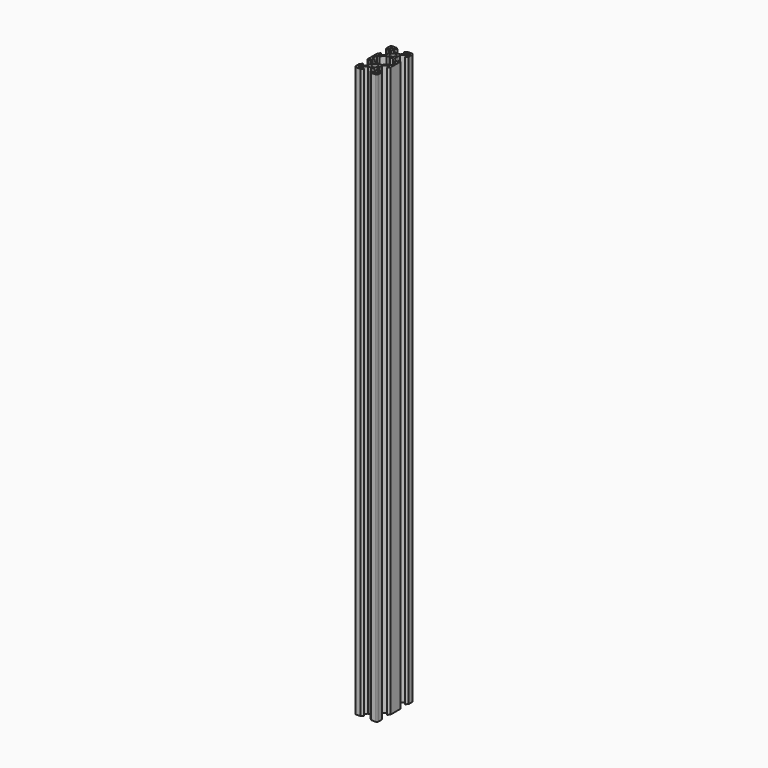
from build123d import *

# Parameters (mm, degrees)
PAD_DEPTH = 500


with BuildPart() as part:
    # Sketch → Pad (new body)
    with BuildSketch(Plane.XY):
        Polygon((9.793031, 6.099995), (7.160666, 6.099995), (4.500005, 3.439335), (4.500005, 1.799995), (7.113379, 1.799995), (7.113379, 1.693368), (5.597807, 0.177796), (5.568813, 0.150641), (5.538106, 0.12544), (5.505816, 0.102301), (5.472082, 0.081324), (5.437049, 0.062598), (5.400865, 0.046204), (5.363687, 0.032211), (5.325673, 0.020679), (5.286987, 0.011659), (5.247793, 0.005188), (5.20826, 0.001294), (5.168557, -5e-06), (1.500005, -5e-06), (1.304216, 0.012828), (1.111777, 0.051106), (0.92598, 0.114176), (0.750005, 0.200957), (0.586863, 0.309965), (0.439345, 0.439335), (0.309975, 0.586853), (0.200967, 0.749995), (0.114186, 0.92597), (0.051117, 1.111767), (0.012838, 1.304206), (5e-06, 1.499995), (6e-06, 5.099995), (0.001305, 5.208249), (0.005199, 5.247782), (0.01167, 5.286976), (0.02069, 5.325662), (0.032222, 5.363676), (0.046215, 5.400854), (0.062609, 5.437038), (0.081335, 5.472071), (0.102312, 5.505805), (0.125451, 5.538095), (0.150652, 5.568803), (0.177807, 5.597796), (1.693379, 7.113368), (1.800006, 7.113368), (1.800005, 4.499995), (3.439345, 4.499995), (6.100005, 7.160655), (6.100005, 9.800127), (6.299873, 9.999995), (6.100005, 10.199863), (6.100005, 12.839335), (3.439345, 15.499995), (1.800005, 15.499995), (1.800006, 12.886622), (1.693379, 12.886622), (0.177807, 14.402194), (0.150651, 14.431187), (0.125451, 14.461894), (0.102312, 14.494184), (0.081335, 14.527918), (0.062609, 14.562952), (0.046215, 14.599135), (0.032222, 14.636313), (0.02069, 14.674327), (0.01167, 14.713014), (0.005199, 14.752207), (0.001305, 14.79174), (5e-06, 14.899995), (6e-06, 25.099995), (0.001305, 25.208249), (0.005199, 25.247782), (0.01167, 25.286976), (0.02069, 25.325663), (0.032222, 25.363676), (0.046215, 25.400855), (0.062609, 25.437038), (0.081335, 25.472072), (0.102312, 25.505806), (0.125451, 25.538095), (0.150652, 25.568803), (0.177807, 25.597796), (1.693379, 27.113368), (1.800006, 27.113368), (1.800006, 24.499995), (3.439345, 24.499995), (6.100006, 27.160655), (6.100006, 29.800127), (6.299874, 29.999995), (6.100006, 30.199863), (6.100006, 32.839335), (3.439346, 35.499995), (1.800006, 35.499995), (1.800006, 32.886622), (1.693379, 32.886622), (0.177807, 34.402194), (0.150652, 34.431187), (0.125451, 34.461895), (0.102312, 34.494184), (0.081335, 34.527918), (0.062609, 34.562952), (0.046215, 34.599135), (0.032222, 34.636314), (0.020691, 34.674327), (0.01167, 34.713014), (0.005199, 34.752208), (0.001306, 34.791741), (6e-06, 34.899995), (6e-06, 38.499995), (0.012838, 38.695784), (0.051117, 38.888224), (0.114187, 39.07402), (0.200968, 39.249995), (0.309976, 39.413137), (0.439346, 39.560655), (0.586864, 39.690025), (0.750006, 39.799033), (0.925981, 39.885814), (1.111777, 39.948884), (1.304217, 39.987162), (1.500006, 39.999995), (5.168557, 39.999995), (5.20826, 39.998695), (5.247793, 39.994802), (5.286987, 39.988331), (5.325673, 39.97931), (5.363687, 39.967779), (5.400865, 39.953786), (5.437049, 39.937392), (5.472083, 39.918666), (5.505816, 39.897689), (5.538106, 39.87455), (5.568814, 39.849349), (5.597807, 39.822194), (7.113379, 38.306622), (7.113379, 38.199995), (4.500006, 38.199995), (4.500006, 36.560655), (7.160666, 33.899995), (9.793031, 33.899995), (10.000006, 33.69302), (10.20698, 33.899995), (12.839346, 33.899995), (15.500006, 36.560655), (15.500006, 38.199995), (12.886633, 38.199995), (12.886633, 38.306622), (14.402205, 39.822194), (14.431198, 39.849349), (14.461905, 39.87455), (14.494195, 39.897688), (14.527929, 39.918665), (14.562963, 39.937391), (14.599146, 39.953786), (14.636324, 39.967779), (14.674338, 39.97931), (14.713025, 39.988331), (14.752218, 39.994801), (14.791751, 39.998695), (14.831455, 39.999995), (18.500006, 39.999995), (18.695795, 39.987162), (18.888234, 39.948884), (19.074031, 39.885814), (19.250006, 39.799033), (19.413148, 39.690025), (19.560666, 39.560655), (19.690036, 39.413137), (19.799044, 39.249995), (19.885825, 39.07402), (19.948895, 38.888223), (19.987173, 38.695784), (20.000006, 38.499995), (20.000006, 34.831444), (19.998706, 34.791741), (19.994812, 34.752208), (19.988342, 34.713014), (19.979321, 34.674327), (19.96779, 34.636313), (19.953797, 34.599135), (19.937402, 34.562952), (19.918676, 34.527918), (19.897699, 34.494184), (19.874561, 34.461894), (19.84936, 34.431187), (19.822205, 34.402194), (18.306633, 32.886622), (18.200006, 32.886622), (18.200006, 35.499995), (16.560666, 35.499995), (13.900006, 32.839335), (13.900006, 30.199863), (13.700138, 29.999995), (13.900006, 29.800127), (13.900006, 27.160655), (16.560666, 24.499995), (18.200006, 24.499995), (18.200006, 27.113368), (18.306633, 27.113368), (19.822205, 25.597796), (19.84936, 25.568803), (19.874561, 25.538095), (19.897699, 25.505806), (19.918676, 25.472072), (19.937402, 25.437038), (19.953797, 25.400854), (19.96779, 25.363676), (19.979321, 25.325662), (19.988341, 25.286976), (19.994812, 25.247782), (19.998706, 25.208249), (20.000006, 25.099995), (20.000005, 14.899995), (19.998706, 14.791741), (19.994812, 14.752208), (19.988341, 14.713014), (19.979321, 14.674327), (19.96779, 14.636313), (19.953797, 14.599135), (19.937402, 14.562952), (19.918676, 14.527918), (19.897699, 14.494184), (19.874561, 14.461894), (19.84936, 14.431187), (19.822205, 14.402194), (18.306633, 12.886622), (18.200006, 12.886622), (18.200005, 15.499995), (16.560666, 15.499995), (13.900005, 12.839335), (13.900005, 10.199863), (13.700137, 9.999995), (13.900005, 9.800127), (13.900005, 7.160655), (16.560665, 4.499995), (18.200005, 4.499995), (18.200006, 7.113368), (18.306633, 7.113368), (19.822205, 5.597796), (19.84936, 5.568803), (19.874561, 5.538095), (19.897699, 5.505806), (19.918676, 5.472072), (19.937402, 5.437038), (19.953797, 5.400854), (19.96779, 5.363676), (19.979321, 5.325662), (19.988341, 5.286976), (19.994812, 5.247782), (19.998706, 5.208249), (20.000006, 5.168546), (20.000005, 1.499995), (19.987173, 1.304206), (19.948894, 1.111766), (19.885825, 0.92597), (19.799043, 0.749995), (19.690035, 0.586853), (19.560665, 0.439335), (19.413147, 0.309965), (19.250005, 0.200957), (19.07403, 0.114176), (18.888234, 0.051106), (18.695795, 0.012828), (18.500005, -5e-06), (14.831454, -5e-06), (14.791751, 0.001295), (14.752218, 0.005188), (14.713025, 0.011659), (14.674338, 0.02068), (14.636324, 0.032211), (14.599146, 0.046204), (14.562963, 0.062598), (14.527929, 0.081324), (14.494195, 0.102301), (14.461905, 0.12544), (14.431198, 0.150641), (14.402205, 0.177796), (12.886633, 1.693368), (12.886633, 1.799995), (15.500005, 1.799995), (15.500005, 3.439335), (12.839345, 6.099995), (10.20698, 6.099995), (10.000006, 6.306969), align=None)
        Polygon((17.657588, 3.427247), (16.572753, 2.342412), (16.572753, 1.799995), (18.200006, 1.799995), (18.200006, 3.427247), align=None, mode=Mode.SUBTRACT)
        Polygon((10.647053, 32.41481), (10.000006, 32.499995), (9.352958, 32.41481), (8.750006, 32.165058), (8.232239, 31.767762), (7.834942, 31.249995), (7.585191, 30.647043), (7.500006, 29.999995), (7.585191, 29.352947), (7.834942, 28.749995), (8.232239, 28.232228), (8.750006, 27.834931), (9.352958, 27.58518), (10.000006, 27.499995), (10.647053, 27.58518), (11.250006, 27.834931), (11.767773, 28.232228), (12.165069, 28.749995), (12.41482, 29.352947), (12.500006, 29.999995), (12.41482, 30.647043), (12.165069, 31.249995), (11.767773, 31.767762), (11.250006, 32.165058), align=None, mode=Mode.SUBTRACT)
        Polygon((10.20698, 13.899995), (12.839345, 13.899995), (16.239345, 17.299995), (18.200006, 17.299995), (18.200006, 22.699995), (16.239345, 22.699995), (12.839345, 26.099995), (10.20698, 26.099995), (10.000006, 26.306969), (9.793031, 26.099995), (7.160666, 26.099995), (3.760666, 22.699995), (1.800006, 22.699995), (1.800006, 17.299995), (3.760666, 17.299995), (7.160666, 13.899995), (9.793031, 13.899995), (10.000005, 13.695226), align=None, mode=Mode.SUBTRACT)
        Polygon((10.647053, 12.41481), (10.000005, 12.499995), (9.352958, 12.41481), (8.750005, 12.165058), (8.232238, 11.767762), (7.834942, 11.249995), (7.585191, 10.647043), (7.500005, 9.999995), (7.585191, 9.352947), (7.834942, 8.749995), (8.232238, 8.232228), (8.750005, 7.834931), (9.352958, 7.58518), (10.000005, 7.499995), (10.647053, 7.58518), (11.250005, 7.834931), (11.767772, 8.232228), (12.165069, 8.749995), (12.41482, 9.352947), (12.500005, 9.999995), (12.41482, 10.647043), (12.165069, 11.249995), (11.767772, 11.767762), (11.250005, 12.165058), align=None, mode=Mode.SUBTRACT)
        Polygon((18.200006, 36.572742), (18.200006, 38.199995), (16.572753, 38.199995), (16.572753, 37.657577), (17.657588, 36.572742), align=None, mode=Mode.SUBTRACT)
        Polygon((3.427258, 2.342412), (2.342423, 3.427247), (1.800006, 3.427247), (1.800006, 1.799995), (3.427258, 1.799995), align=None, mode=Mode.SUBTRACT)
        Polygon((3.427258, 38.199995), (1.800006, 38.199995), (1.800006, 36.572743), (2.342423, 36.572743), (3.427258, 37.657578), align=None, mode=Mode.SUBTRACT)
    extrude(amount=PAD_DEPTH)


solid = part.part
